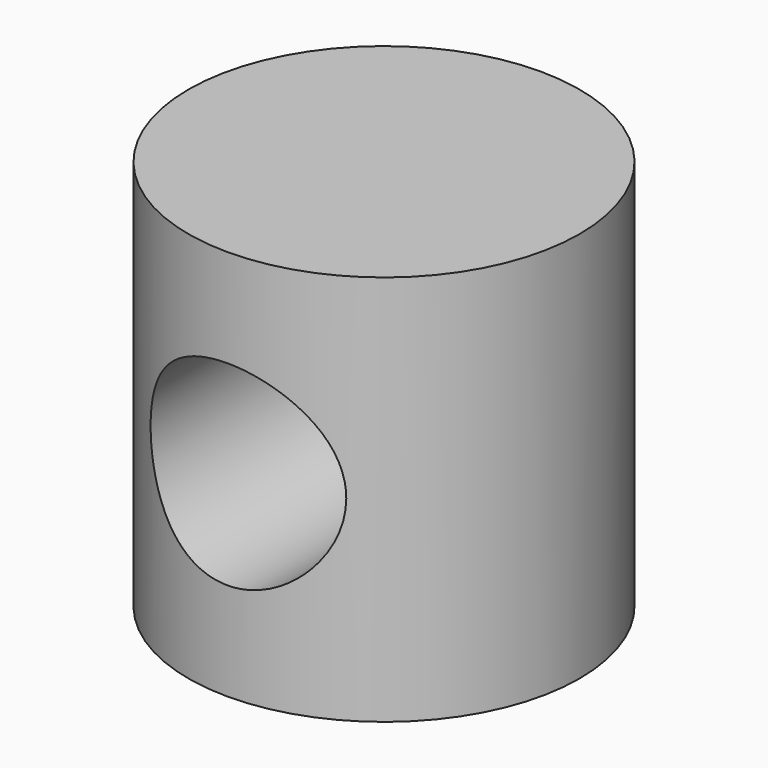
from build123d import *

# Parameters (mm, degrees)
F0_R     = 4
F1_DEPTH = 4
F2_R     = 2
F3_DEPTH = 4


with BuildPart() as f1:
    # F0 (on Top) → F1 (new body, symmetric)
    with BuildSketch(Plane.XY):
        Circle(F0_R)
    extrude(amount=F1_DEPTH, both=True)

    # F2 (on Front) → F3 (cut, symmetric)
    with BuildSketch(Plane.XZ):
        Circle(F2_R)
    extrude(amount=F3_DEPTH, both=True, mode=Mode.SUBTRACT)


solid = f1.part
